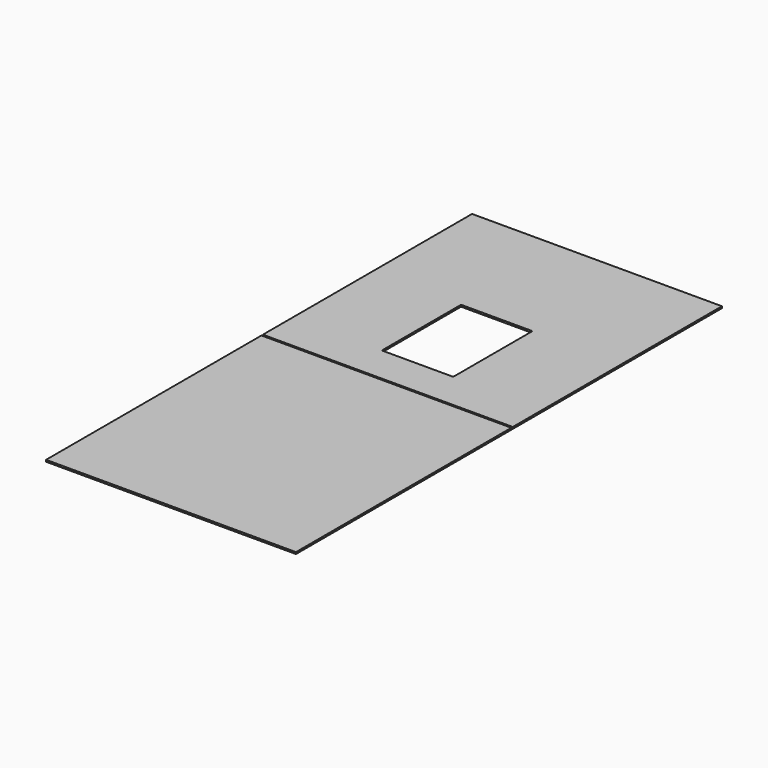
from build123d import *

# Parameters (mm, degrees)
F0_W     = 896
F0_H     = 965.25
F1_DEPTH = 6.35
F0_H_2   = 937.5
F2_DEPTH = 6.35


with BuildPart() as f1:
    # F0 (on Top) → F1 (new body)
    with BuildSketch(Plane.XY):
        with Locations((448, 482.625)):
            Rectangle(F0_W, F0_H)
    extrude(amount=F1_DEPTH)


with BuildPart() as f2:
    # F0 (on Top) → F2 (new body)
    with BuildSketch(Plane.XY):
        with Locations((448, 1440.5)):
            Rectangle(F0_W, F0_H_2)
        with BuildLine():
            Line((573, 1104.97), (323, 1104.97))
            ThreePointArc((323, 1104.97), (320.87868, 1105.84868), (320, 1107.97))
            Line((320, 1107.97), (320, 1456.97))
            ThreePointArc((320, 1456.97), (320.87868, 1459.09132), (323, 1459.97))
            Line((323, 1459.97), (573, 1459.97))
            ThreePointArc((573, 1459.97), (575.12132, 1459.09132), (576, 1456.97))
            Line((576, 1456.97), (576, 1107.97))
            ThreePointArc((576, 1107.97), (575.12132, 1105.84868), (573, 1104.97))
        make_face(mode=Mode.SUBTRACT)
    extrude(amount=F2_DEPTH)


solid = Compound([f1.part, f2.part])
